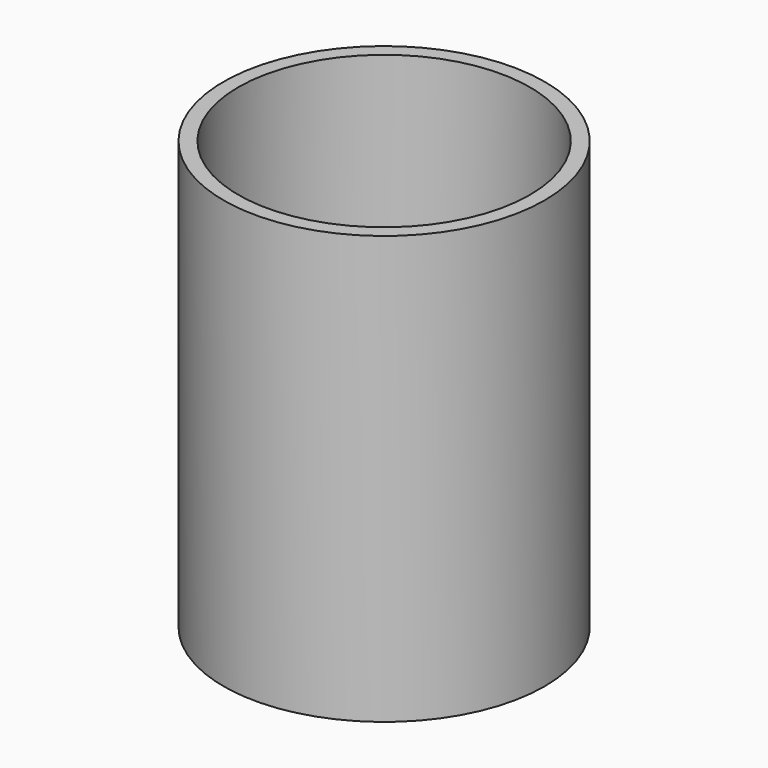
from build123d import *

# Parameters (mm, degrees)
F0_R     = 10.8782
F0_R_2   = 9.8782
F0_R_3   = 6.5
F0_R_4   = 5.4
F0_R_5   = 5
F1_DEPTH = 3
F2_DEPTH = 28.9814
F3_DEPTH = 4


with BuildPart() as f1:
    # F0 (on Top) → F1 (new body)
    with BuildSketch(Plane.XY):
        Circle(F0_R)
        Circle(F0_R_2, mode=Mode.SUBTRACT)
        Circle(F0_R_2)
        Circle(F0_R_3, mode=Mode.SUBTRACT)
        Circle(F0_R_3)
        Circle(F0_R_4, mode=Mode.SUBTRACT)
        Circle(F0_R_4)
        Circle(F0_R_5, mode=Mode.SUBTRACT)
        Circle(F0_R_5)
    extrude(amount=F1_DEPTH)

    # F0 (on Top) → F2 (join)
    with BuildSketch(Plane.XY):
        Circle(F0_R)
        Circle(F0_R_2, mode=Mode.SUBTRACT)
    extrude(amount=F2_DEPTH)

    # F0 (on Top) → F3 (join)
    with BuildSketch(Plane.XY):
        Circle(F0_R_5)
    extrude(amount=F3_DEPTH)


solid = f1.part
